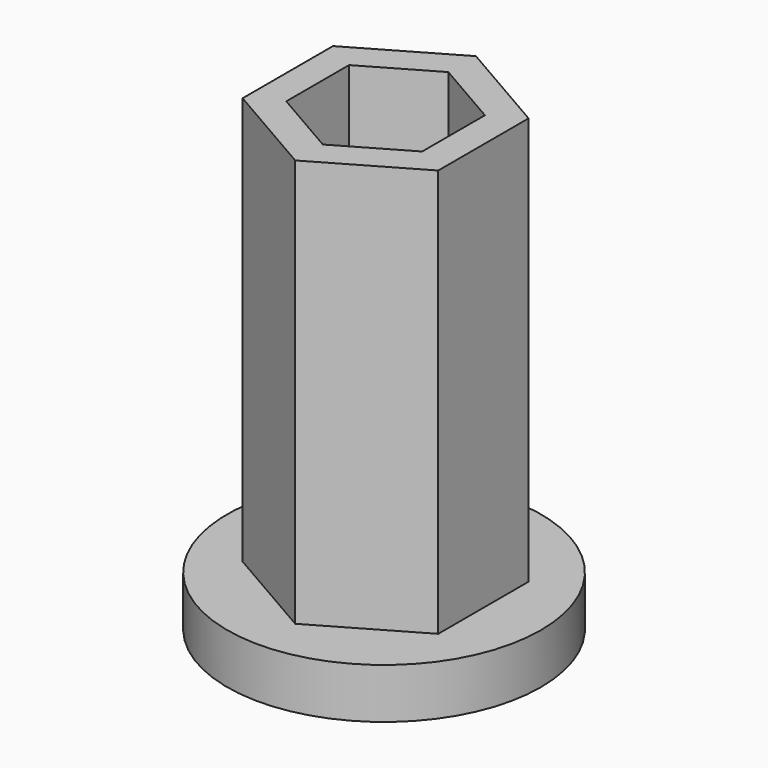
from build123d import *

# Parameters (mm, degrees)
SKETCH_R     = 5
PAD_DEPTH    = 1.6
PAD001_DEPTH = 13


with BuildPart() as part:
    # Sketch → Pad (new body)
    with BuildSketch(Plane.XY):
        with Locations((-0.010221, -0.048828)):
            Circle(SKETCH_R)
        Polygon((2.165064, -1.25), (2.165064, 1.25), (0, 2.5), (-2.165064, 1.25), (-2.165064, -1.25), (0, -2.5), align=None, mode=Mode.SUBTRACT)
    extrude(amount=PAD_DEPTH)

    # Sketch001 → Pad001 (new body)
    with BuildSketch(Plane.XY.offset(1.6)):
        Polygon((3.117691, -1.8), (3.117691, 1.8), (0, 3.6), (-3.117691, 1.8), (-3.117691, -1.8), (0, -3.6), align=None)
        Polygon((2.165064, -1.25), (2.165064, 1.25), (0, 2.5), (-2.165064, 1.25), (-2.165064, -1.25), (0, -2.5), align=None, mode=Mode.SUBTRACT)
    extrude(amount=PAD001_DEPTH)


solid = part.part
